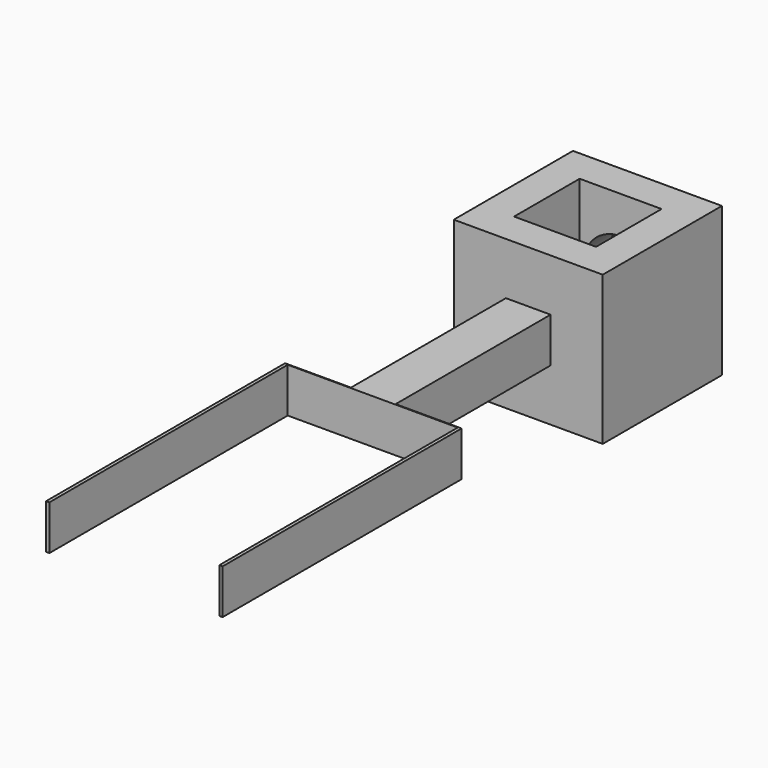
from build123d import *

# Parameters (mm, degrees)
F0_W      = 20
F0_H      = 20
F1_DEPTH  = 20
F2_W      = 11
F2_H      = 11
F3_DEPTH  = 25
F4_W      = 6
F4_H      = 6
F5_DEPTH  = 26
F6_W      = 23.7
F6_H      = 6
F7_DEPTH  = 0.1
F8_W      = 0.44082
F8_H      = 6
F9_DEPTH  = 40
F10_R     = 5
F11_DEPTH = 10


with BuildPart() as f1:
    # F0 (on Front) → F1 (new body)
    with BuildSketch(Plane.XZ):
        Rectangle(F0_W, F0_H)
    extrude(amount=F1_DEPTH)

    # F2 (on face) → F3 (cut)
    with BuildSketch(Plane.XY.offset(10)):
        with Locations((0, -10)):
            Rectangle(F2_W, F2_H)
    extrude(amount=-F3_DEPTH, mode=Mode.SUBTRACT)

    # F4 (on face) → F5 (join)
    with BuildSketch(Plane.XZ.offset(20)):
        Rectangle(F4_W, F4_H)
    extrude(amount=F5_DEPTH)

    # F6 (on face) → F7 (join)
    with BuildSketch(Plane.XZ.offset(46)):
        Rectangle(F6_W, F6_H)
    extrude(amount=F7_DEPTH)

    # F8 (on face) → F9 (join)
    with BuildSketch(Plane.XZ.offset(46.1)):
        with Locations((-11.62959, 0)):
            Rectangle(F8_W, F8_H)
        with Locations((11.62959, 0)):
            Rectangle(F8_W, F8_H)
    extrude(amount=F9_DEPTH)

    # F10 (on face) → F11 (cut)
    with BuildSketch(Plane(origin=(0, 0, 0), x_dir=(-1, 0, 0), z_dir=(0, 1, 0))):
        Circle(F10_R)
    extrude(amount=-F11_DEPTH, mode=Mode.SUBTRACT)


solid = f1.part
